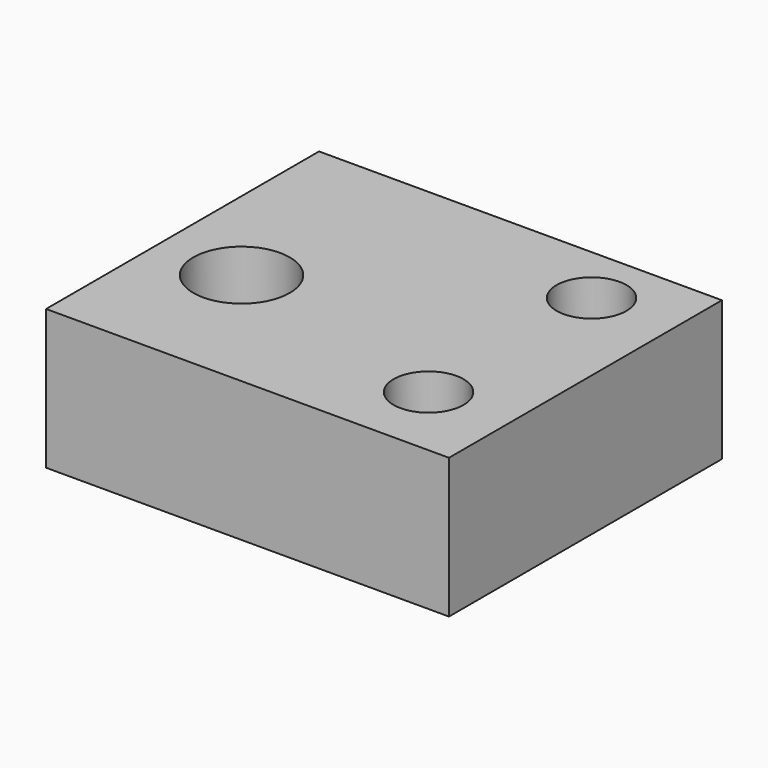
from build123d import *

# Parameters (mm, degrees)
SKETCH_W        = 28.817356
SKETCH_H        = 24.401199
PAD_DEPTH       = 10
SKETCH001_R     = 3.449545
POCKET_DEPTH    = 10.001
SKETCH002_R     = 2.5
POCKET001_DEPTH = 5


with BuildPart() as part:
    # Sketch → Pad (new body)
    with BuildSketch(Plane.XY):
        with Locations((14.408678, 12.200599)):
            Rectangle(SKETCH_W, SKETCH_H)
    extrude(amount=PAD_DEPTH)

    # Sketch001 → Pocket (cut, through all)
    with BuildSketch(Plane.XY):
        with Locations((5.970357, 10.013991)):
            Circle(SKETCH001_R)
    extrude(amount=POCKET_DEPTH, mode=Mode.SUBTRACT)

    # Sketch002 (on Face5 of Pocket) → Pocket001 (cut)
    with BuildSketch(Plane.XY.offset(10)):
        with Locations((22.960093, 5.495847)):
            Circle(SKETCH002_R)
        with Locations((22.960093, 20.067438)):
            Circle(SKETCH002_R)
    extrude(amount=-POCKET001_DEPTH, mode=Mode.SUBTRACT)


solid = part.part
